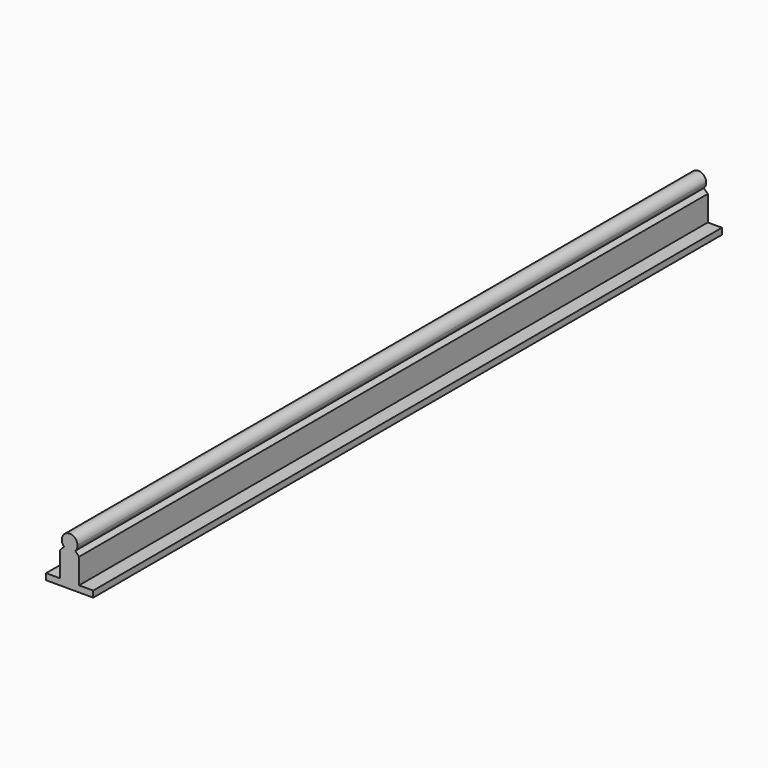
from build123d import *

# Parameters (mm, degrees)
F1_DEPTH = 500


with BuildPart() as f1:
    # F0 (on Front) → F1 (new body)
    with BuildSketch(Plane.XZ):
        with BuildLine():
            ThreePointArc((3.5355339059, -3.5355339059), (4.6193976626, -1.9134171618), (5, 0))
            ThreePointArc((5, 0), (-1.9134171618, 4.6193976626), (-3.5355339059, -3.5355339059))
            Line((-3.5355339059, -3.5355339059), (0, 0))
            Line((0, 0), (3.5355339059, -3.5355339059))
        make_face()
        with BuildLine():
            Line((0, 0), (-3.5355339059, -3.5355339059))
            ThreePointArc((-3.5355339059, -3.5355339059), (-1.9134171618, -4.6193976626), (0, -5))
            Line((0, -5), (0, 0))
        make_face()
        with BuildLine():
            ThreePointArc((0, -5), (-1.9134171618, -4.6193976626), (-3.5355339059, -3.5355339059))
            Line((-3.5355339059, -3.5355339059), (-6, -6))
            Line((-6, -6), (-6, -22))
            Line((-6, -22), (0, -22))
            Line((0, -22), (0, -5))
        make_face()
        with BuildLine():
            Line((6, -6), (3.5355339059, -3.5355339059))
            ThreePointArc((3.5355339059, -3.5355339059), (1.9134171618, -4.6193976626), (0, -5))
            Line((0, -5), (0, -22))
            Line((0, -22), (6, -22))
            Line((6, -22), (6, -6))
        make_face()
        with BuildLine():
            ThreePointArc((0, -5), (1.9134171618, -4.6193976626), (3.5355339059, -3.5355339059))
            Line((3.5355339059, -3.5355339059), (0, 0))
            Line((0, 0), (0, -5))
        make_face()
        Polygon((6, -22), (0, -22), (0, -26), (15, -26), (15, -22), align=None)
        Polygon((0, -26), (0, -22), (-6, -22), (-15, -22), (-15, -26), align=None)
    extrude(amount=-F1_DEPTH)


solid = f1.part
